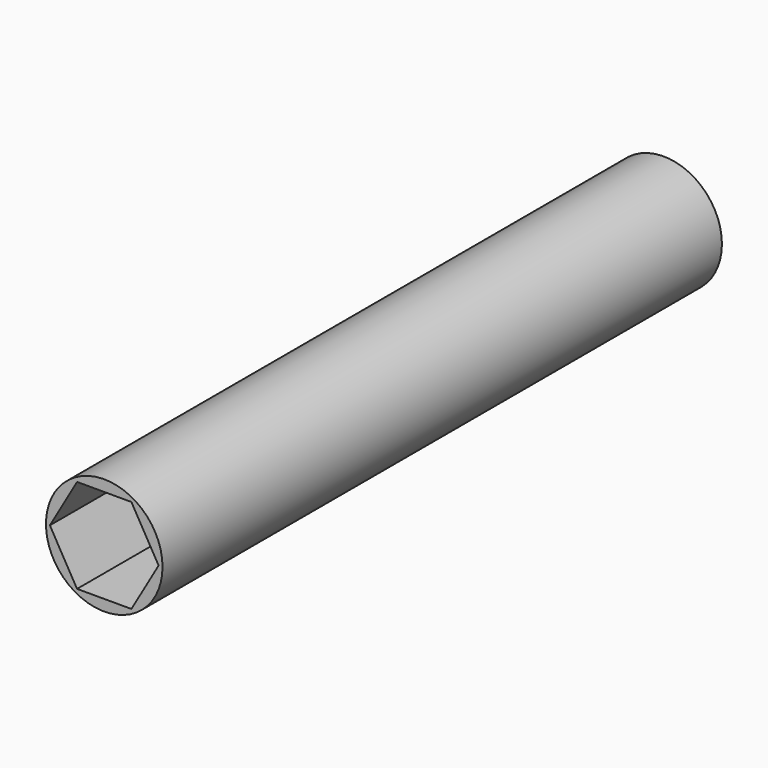
from build123d import *

# Parameters (mm, degrees)
F1_DEPTH = 25.4
F0_R     = 7.9375
F2_DEPTH = 69.85
F3_DEPTH = 25.4


with BuildPart() as f1:
    # F0 (on Front) → F1 (new body)
    with BuildSketch(Plane.XZ):
        Polygon((3.666174, 6.35), (-3.666174, 6.35), (-7.332348, 0), (-3.666174, -6.35), (3.666174, -6.35), (7.332348, 0), align=None)
    extrude(amount=F1_DEPTH)


with BuildPart() as f2:
    # F0 (on Front) → F2 (new body)
    with BuildSketch(Plane.XZ):
        Circle(F0_R)
        Polygon((-7.405672, 0), (-3.702836, 6.4135), (3.702836, 6.4135), (7.405672, 0), (3.702836, -6.4135), (-3.702836, -6.4135), align=None, mode=Mode.SUBTRACT)
    extrude(amount=F2_DEPTH)

    # F0 (on Front) → F3 (join)
    with BuildSketch(Plane.XZ):
        Circle(F0_R)
        Polygon((-7.405672, 0), (-3.702836, 6.4135), (3.702836, 6.4135), (7.405672, 0), (3.702836, -6.4135), (-3.702836, -6.4135), align=None, mode=Mode.SUBTRACT)
    extrude(amount=-F3_DEPTH)


solid = Compound([f1.part, f2.part])
